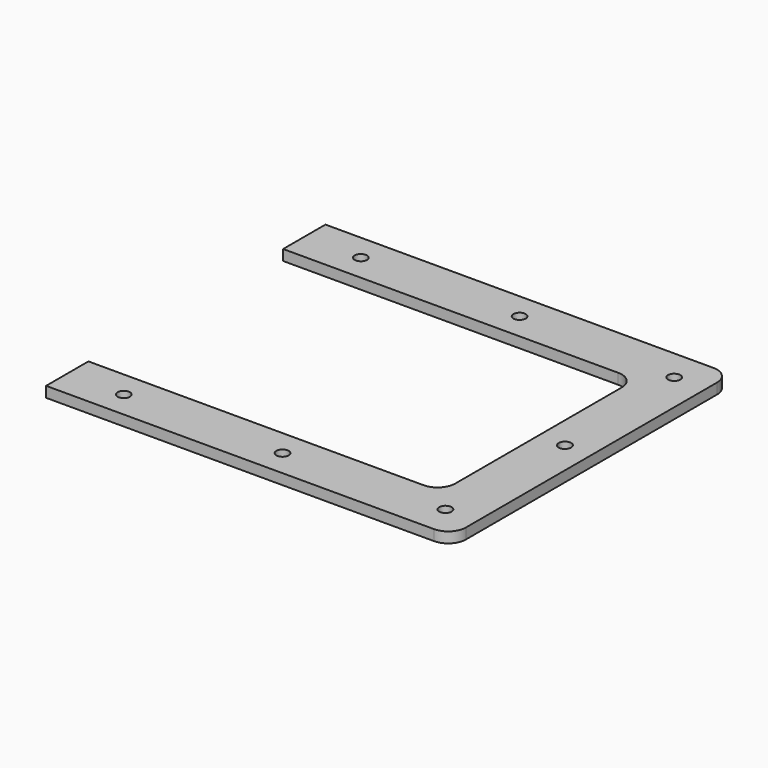
from build123d import *

# Parameters (mm, degrees)
F1_DEPTH = 3
F2_D     = 3.5
F2_DEPTH = 5


with BuildPart() as f1:
    # F0 (on Top) → F1 (new body)
    with BuildSketch(Plane.XY):
        with BuildLine():
            ThreePointArc((100, -29.5), (98.535534, -33.035534), (95, -34.5))
            Line((95, -34.5), (0, -34.5))
            Line((0, -34.5), (0, -49.5))
            Line((0, -49.5), (110, -49.5))
            ThreePointArc((110, -49.5), (113.535534, -48.035534), (115, -44.5))
            Line((115, -44.5), (115, 44.5))
            ThreePointArc((115, 44.5), (113.535534, 48.035534), (110, 49.5))
            Line((110, 49.5), (0, 49.5))
            Line((0, 49.5), (0, 34.5))
            Line((0, 34.5), (95, 34.5))
            ThreePointArc((95, 34.5), (98.535534, 33.035534), (100, 29.5))
            Line((100, 29.5), (100, -29.5))
        make_face()
    extrude(amount=F1_DEPTH)

    # F2
    with Locations(Plane(origin=(0, 0, 0), x_dir=(1, 0, 0), z_dir=(0, 0, -1))):
        with Locations((16.035534, 42), (61.035534, 42), (106.035534, 40.535534), (107.5, 0.035534), (107.5, -0.035534), (106.035534, -40.535534), (61.035534, -42), (16.035534, -42)):
            Hole(F2_D / 2, depth=F2_DEPTH)


solid = f1.part
